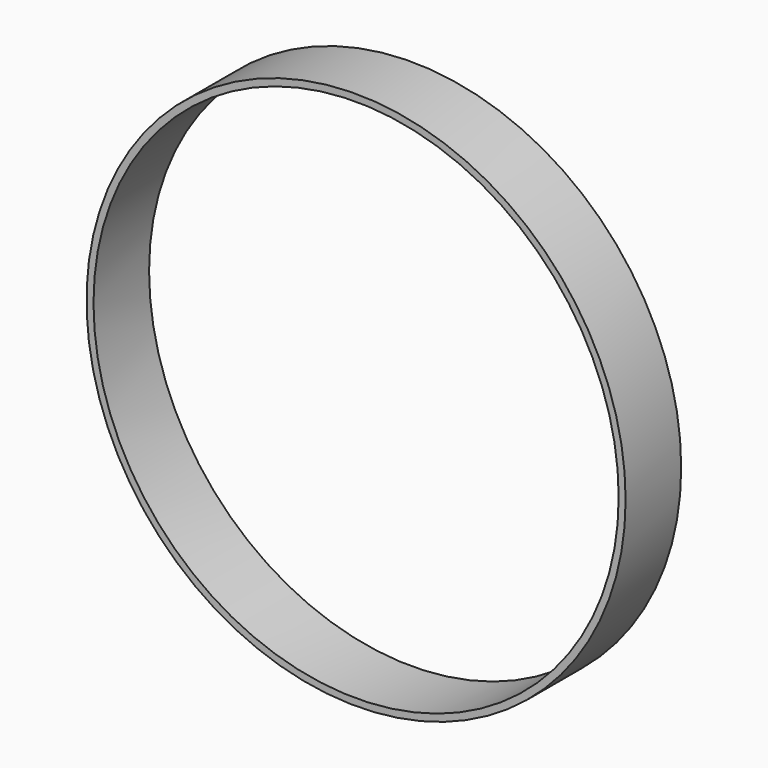
from build123d import *

# Parameters (mm, degrees)
F0_R     = 98.5411260824
F0_R_2   = 79.1014051969
F1_DEPTH = 25.4
F2_T     = -2.54


with BuildPart() as f1:
    # F0 (on Front) → F1 (new body)
    with BuildSketch(Plane.XZ):
        Circle(F0_R)
        Circle(F0_R_2, mode=Mode.SUBTRACT)
        Circle(F0_R_2)
    extrude(amount=F1_DEPTH)

    # F2
    f2_openings = [f1.faces().sort_by_distance(p)[0] for p in [
        (0, -25.4, 0),
        (0, 0, 0),
    ]]
    offset(amount=F2_T, openings=f2_openings)


solid = f1.part
